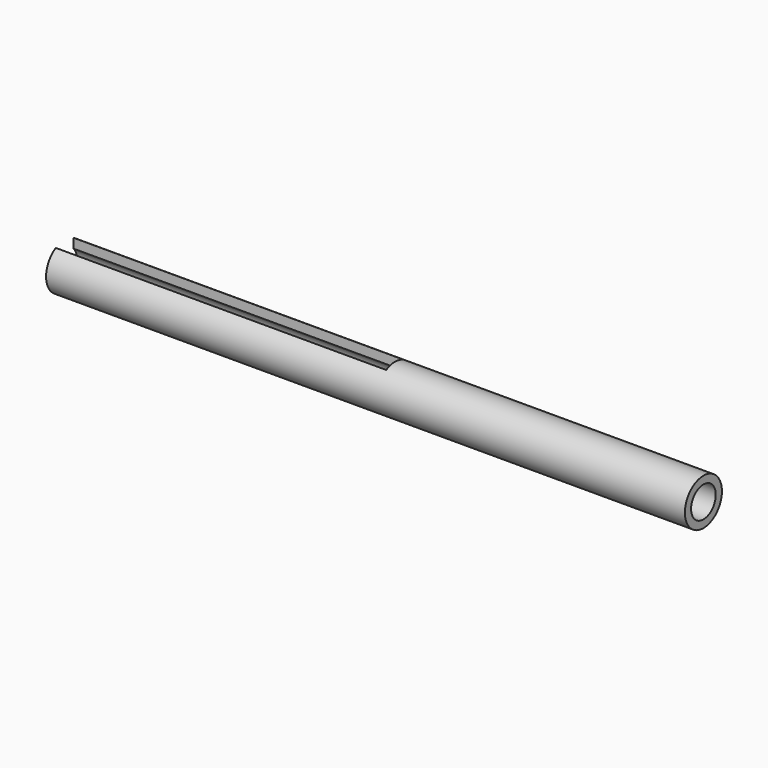
from build123d import *

# Parameters (mm, degrees)
F0_R     = 10.5
F1_DEPTH = 290
F2_R     = 7
F3_DEPTH = 300
F5_W     = 300
F5_H     = 10
F6_DEPTH = 25
F8_DEPTH = 25


with BuildPart() as f1:
    # F0 (on Right) → F1 (new body)
    with BuildSketch(Plane.YZ):
        Circle(F0_R)
    extrude(amount=F1_DEPTH)

    # F2 (on face) → F3 (cut)
    with BuildSketch(Plane(origin=(0, 0, 0), x_dir=(0, -1, 0), z_dir=(-1, 0, 0))):
        Circle(F2_R)
    extrude(amount=-F3_DEPTH, mode=Mode.SUBTRACT)

    # F5 (on Top) → F6 (cut)
    with BuildSketch(Plane.XY):
        Rectangle(F5_W, F5_H)
    extrude(amount=F6_DEPTH, mode=Mode.SUBTRACT)

    # F7 (on Top) → F8 (cut)
    with BuildSketch(Plane.XY):
        with BuildLine():
            ThreePointArc((14, 0), (12, 2), (10, 0))
            Line((10, 0), (12, 0))
            Line((12, 0), (14, 0))
        make_face()
        with BuildLine():
            ThreePointArc((238, 0), (236, 2), (234, 0))
            ThreePointArc((234, 0), (236, -2), (238, 0))
        make_face()
        with BuildLine():
            ThreePointArc((145, 0), (143, 2), (141, 0))
            Line((141, 0), (143, 0))
            Line((143, 0), (145, 0))
        make_face()
        with BuildLine():
            Line((143, 0), (141, 0))
            ThreePointArc((141, 0), (143, -2), (145, 0))
            Line((145, 0), (143, 0))
        make_face()
        with BuildLine():
            Line((12, 0), (10, 0))
            ThreePointArc((10, 0), (12, -2), (14, 0))
            Line((14, 0), (12, 0))
        make_face()
    extrude(amount=-F8_DEPTH, mode=Mode.SUBTRACT)


solid = f1.part
